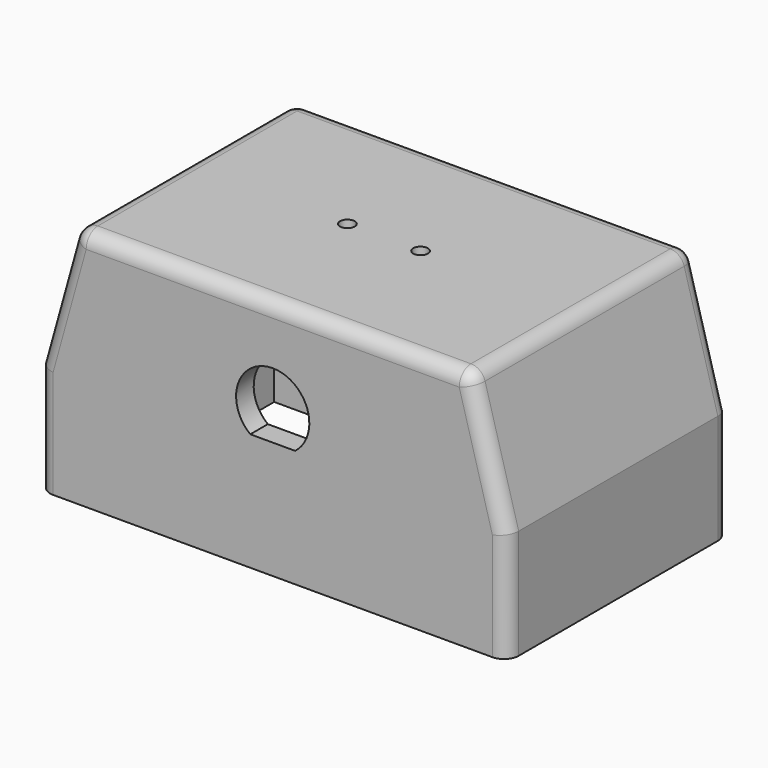
from build123d import *

# Parameters (mm, degrees)
F0_W      = 64
F0_H      = 38
F0_W_2    = 50
F0_H_2    = 28.5
F1_DEPTH  = 30
F3_D      = 2
F3_DEPTH  = 15
F3_TIP    = 0.600860619
F4_W      = 64
F4_H      = 38
F5_DEPTH  = 3
F6_W      = 10
F6_H      = 28.5
F8_DEPTH  = 15.75
F10_DEPTH = 38
F11_R     = 2
F13_DEPTH = 3
F15_D     = 2


with BuildPart() as f1:
    # F0 (on Top) → F1 (new body)
    with BuildSketch(Plane.XY):
        with Locations((32, 19)):
            Rectangle(F0_W, F0_H)
        with Locations((32, 17.25)):
            Rectangle(F0_W_2, F0_H_2, mode=Mode.SUBTRACT)
    extrude(amount=F1_DEPTH)

    # F3
    with Locations(Plane(origin=(0, 0, 0), x_dir=(1, 0, 0), z_dir=(0, 0, -1))):
        with Locations((2.5, -2.5), (61.5, -2.5), (61.5, -35.5), (2.5, -35.5)):
            Hole(F3_D / 2, depth=F3_DEPTH)
            with Locations((0, 0, -(F3_DEPTH + F3_TIP / 2))):  # 118° drill point
                Cone(0, F3_D / 2, F3_TIP, mode=Mode.SUBTRACT)

    # F4 (on face) → F5 (join)
    with BuildSketch(Plane.XY.offset(30)):
        with Locations((32, 19)):
            Rectangle(F4_W, F4_H)
    extrude(amount=F5_DEPTH)

    # F6 (on face) → F8 (join, through all)
    with BuildSketch(Plane(origin=(0, 0, 30), x_dir=(1, 0, 0), z_dir=(0, 0, -1))):
        with Locations((12, -17.25)):
            Rectangle(F6_W, F6_H)
    extrude(amount=F8_DEPTH)

    # F9 (on face) → F10 (cut, through all)
    with BuildSketch(Plane.XZ):
        Polygon((0, 33), (0, 15), (5, 33), align=None)
        Polygon((64, 33), (59, 33), (64, 15), align=None)
    extrude(amount=-F10_DEPTH, mode=Mode.SUBTRACT)

    # F11
    f11_edges = [f1.edges().sort_by_distance(p)[0] for p in [
        (0, 0, 7.5),
        (2.5, 0, 24),
        (61.5, 0, 24),
        (64, 0, 7.5),
        (2.5, 38, 24),
        (0, 38, 7.5),
        (64, 38, 7.5),
        (61.5, 38, 24),
        (32, 0, 33),
        (5, 19, 33),
        (32, 38, 33),
        (59, 19, 33),
    ]]
    fillet(f11_edges, radius=F11_R)

    # F12 (on face) → F13 (cut, through all)
    with BuildSketch(Plane.XZ):
        with BuildLine():
            Line((28.9344657888, 16.05), (35.0655342112, 16.05))
            ThreePointArc((35.0655342112, 16.05), (32, 25), (28.9344657888, 16.05))
        make_face()
    extrude(amount=-F13_DEPTH, mode=Mode.SUBTRACT)

    # F15 (through all)
    with Locations(Plane.XY.offset(33)):
        with Locations((27, 19), (37, 19)):
            Hole(F15_D / 2)


solid = f1.part
